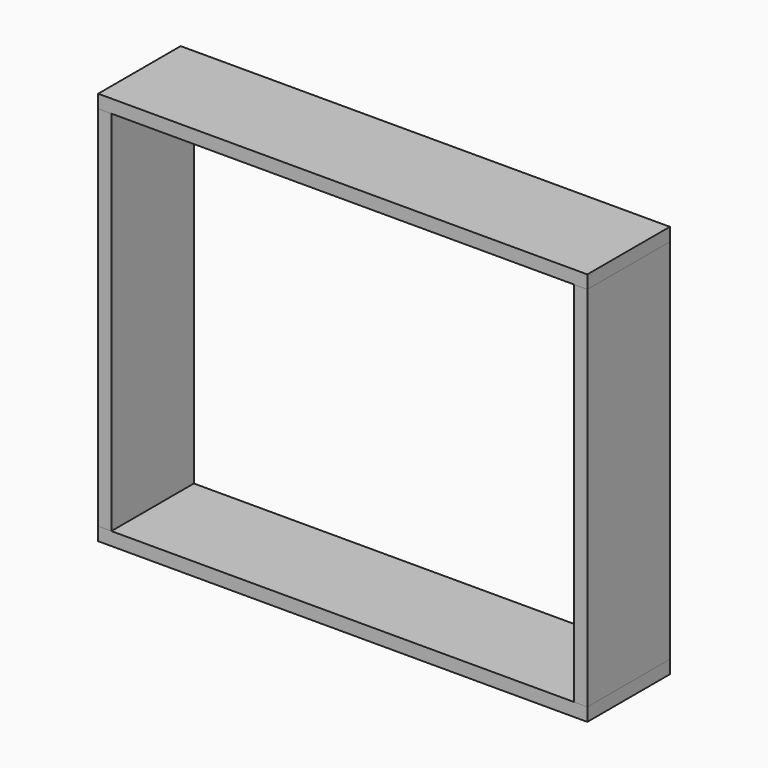
from build123d import *

# Parameters (mm, degrees)
F0_W     = 1850
F0_H     = 390
F1_DEPTH = 50
F2_W     = 390
F2_H     = 1390
F3_DEPTH = 50
F4_W     = 390
F4_H     = 1390
F5_DEPTH = 50
F6_W     = 50
F6_H     = 390
F6_W_2   = 1800
F7_DEPTH = 50


with BuildPart() as f1:
    # F0 (on Top) → F1 (new body)
    with BuildSketch(Plane.XY):
        with Locations((925, -195)):
            Rectangle(F0_W, F0_H)
    extrude(amount=F1_DEPTH)


with BuildPart() as f3:
    # F2 (on face) → F3 (new body)
    with BuildSketch(Plane(origin=(0, 0, 0), x_dir=(0, -1, 0), z_dir=(-1, 0, 0))):
        with Locations((195, 745)):
            Rectangle(F2_W, F2_H)
    extrude(amount=-F3_DEPTH)


with BuildPart() as f5:
    # F4 (on face) → F5 (new body)
    with BuildSketch(Plane.YZ.offset(1850)):
        with Locations((-195, 745)):
            Rectangle(F4_W, F4_H)
    extrude(amount=-F5_DEPTH)


with BuildPart() as f7:
    # F6 (on face) → F7 (new body)
    with BuildSketch(Plane.XY.offset(1440)):
        with Locations((25, -195)):
            Rectangle(F6_W, F6_H)
        with Locations((950, -195)):
            Rectangle(F6_W_2, F6_H)
    extrude(amount=F7_DEPTH)


solid = Compound([f1.part, f3.part, f5.part, f7.part])
